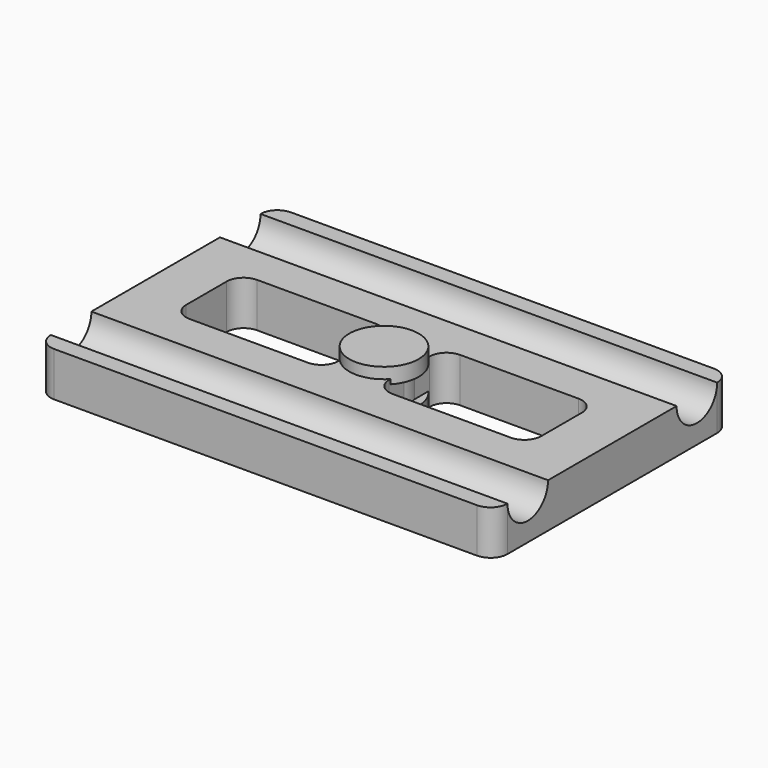
from build123d import *

# Parameters (mm, degrees)
OBJ1_R      = 8.2
OBJ1_DEPTH  = 3.7
OBJ2_R         = 6.2
OBJ2_DEPTH     = 6
OBJ3_R     = 8.2
OBJ3_DEPTH = 3.4
OBJ4        = 36
OBJ5        = 20
OBJ6    = 12.5
OBJ7_R   = 4
ROD_N_R           = 6
ROD_N_DEPTH       = 110
ROD_N_PITCH_ANGLE = 90
ROD_P_R           = 6
ROD_P_DEPTH       = 110
ROD_P_PITCH_ANGLE = 90
OBJ8        = 36
OBJ9        = 20
OBJ10    = 12.5
OBJ11   = 4
TOTAL_BOX_W       = 108
TOTAL_BOX_H       = 70
TOTAL_BOX_DEPTH   = 10.5
OBJ12    = 4


with BuildPart() as obj1:
    # obj1 → obj1 (new body)
    with BuildSketch(Plane.XY.offset(9.4)):
        Circle(OBJ1_R)
    extrude(amount=OBJ1_DEPTH)


with BuildPart() as obj2:
    # obj2 → obj2 (new body)
    with BuildSketch(Plane.XY.offset(3.4)):
        Circle(OBJ2_R)
    extrude(amount=OBJ2_DEPTH)


with BuildPart() as obj3:
    # obj3 → obj3 (new body)
    with BuildSketch(Plane.XY):
        Circle(OBJ3_R)
    extrude(amount=OBJ3_DEPTH)


with BuildPart() as obj7:
    with BuildSketch(Plane(origin=(-42, -10, -1), x_dir=(1, 0, 0), z_dir=(0, 0, 1))):
        with Locations((18, 10)):
            Rectangle(OBJ4, OBJ5)
    extrude(amount=OBJ6)

    # obj7
    obj7_edges = [obj7.edges().sort_by_distance(p)[0] for p in [
        (-42, -10, 5.25),
        (-42, 10, 5.25),
        (-6, -10, 5.25),
        (-6, 10, 5.25),
    ]]
    fillet(obj7_edges, radius=OBJ7_R)


with BuildPart() as rod_n:
    # rod_n → rod_n (new body)
    with BuildSketch(Plane.XY):
        Circle(ROD_N_R)
    extrude(amount=ROD_N_DEPTH)


with BuildPart() as rod_n_1:
    # rod_n pitch: moved
    add(rod_n.part.rotate(Axis((0, 0, 0), (0, 1, 0)), ROD_N_PITCH_ANGLE))


with BuildPart() as rod_n_2:
    # rod_n placement: moved
    add(rod_n_1.part.moved(Location((-55, -25, 10.5))))


with BuildPart() as rod_p:
    # rod_p → rod_p (new body)
    with BuildSketch(Plane.XY):
        Circle(ROD_P_R)
    extrude(amount=ROD_P_DEPTH)


with BuildPart() as rod_p_1:
    # rod_p pitch: moved
    add(rod_p.part.rotate(Axis((0, 0, 0), (0, 1, 0)), ROD_P_PITCH_ANGLE))


with BuildPart() as rod_p_2:
    # rod_p placement: moved
    add(rod_p_1.part.moved(Location((-55, 25, 10.5))))


with BuildPart() as fuse_holes:
    with BuildSketch(Plane(origin=(6, -10, -1), x_dir=(1, 0, 0), z_dir=(0, 0, 1))):
        with Locations((18, 10)):
            Rectangle(OBJ8, OBJ9)
    extrude(amount=OBJ10)

    obj13 = [fuse_holes.edges().sort_by_distance(p)[0] for p in [
        (6, -10, 5.25),
        (6, 10, 5.25),
        (42, -10, 5.25),
        (42, 10, 5.25),
    ]]
    fillet(obj13, radius=OBJ11)

    # fuse_holes: union obj7, rod_n, rod_p
    add(obj7.part)
    add(rod_n_2.part)
    add(rod_p_2.part)


with BuildPart() as obj14:
    # total_box → total_box (new body)
    with BuildSketch(Plane(origin=(-54, -35, 0), x_dir=(1, 0, 0), z_dir=(0, 0, 1))):
        with Locations((54, 35)):
            Rectangle(TOTAL_BOX_W, TOTAL_BOX_H)
    extrude(amount=TOTAL_BOX_DEPTH)

    obj15 = [obj14.edges().sort_by_distance(p)[0] for p in [
        (-54, -35, 5.25),
        (-54, 35, 5.25),
        (54, -35, 5.25),
        (54, 35, 5.25),
    ]]
    fillet(obj15, radius=OBJ12)

    # obj14: cut fuse_holes
    add(fuse_holes.part, mode=Mode.SUBTRACT)


solid = Compound([obj1.part, obj2.part, obj3.part, obj14.part])
